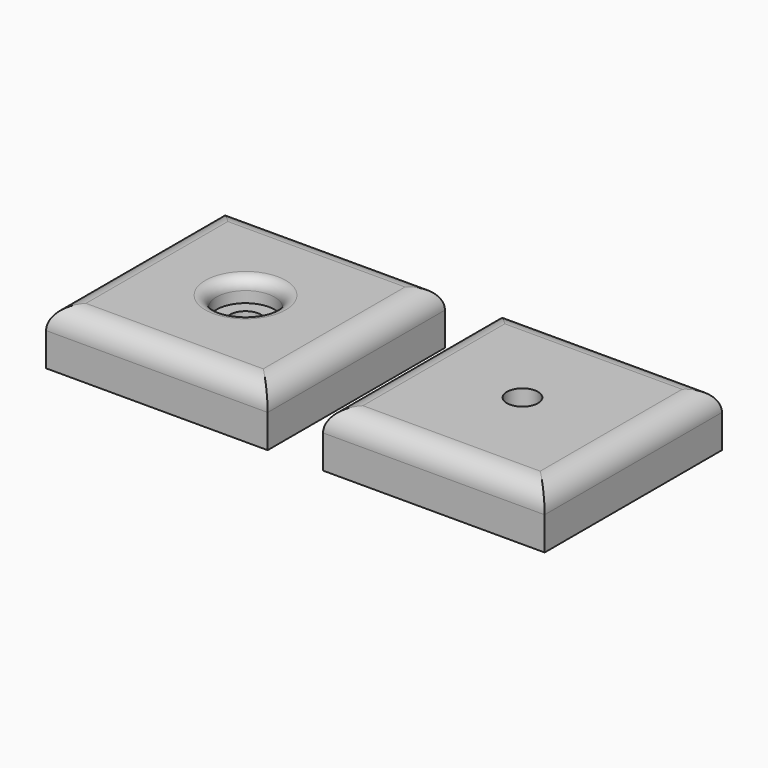
from build123d import *

# Parameters (mm, degrees)
F0_W     = 20
F0_H     = 20
F0_R     = 2.625
F0_R_2   = 1.4
F1_DEPTH = 5
F2_DEPTH = 3
F3_R     = 2
F4_R     = 1


with BuildPart() as f1:
    # F0 (on Top) → F1 (new body)
    with BuildSketch(Plane.XY):
        Rectangle(F0_W, F0_H)
        Circle(F0_R, mode=Mode.SUBTRACT)
        with Locations((25, 0)):
            Rectangle(F0_W, F0_H)
        with Locations((25, 0)):
            Circle(F0_R_2, mode=Mode.SUBTRACT)
    extrude(amount=F1_DEPTH)

    # F0 (on Top) → F2 (join)
    with BuildSketch(Plane.XY):
        Circle(F0_R)
        Circle(F0_R_2, mode=Mode.SUBTRACT)
    extrude(amount=F2_DEPTH)

    # F3
    f3_edges = [f1.edges().sort_by_distance(p)[0] for p in [
        (10, 0, 5),
        (0, -10, 5),
        (0, 10, 5),
        (-10, 0, 5),
        (25, -10, 5),
        (15, 0, 5),
        (25, 10, 5),
        (35, 0, 5),
    ]]
    fillet(f3_edges, radius=F3_R)

    # F4
    f4_edges = [f1.edges().sort_by_distance(p)[0] for p in [
        (-2.625, 0, 5),
    ]]
    fillet(f4_edges, radius=F4_R)


solid = f1.part
